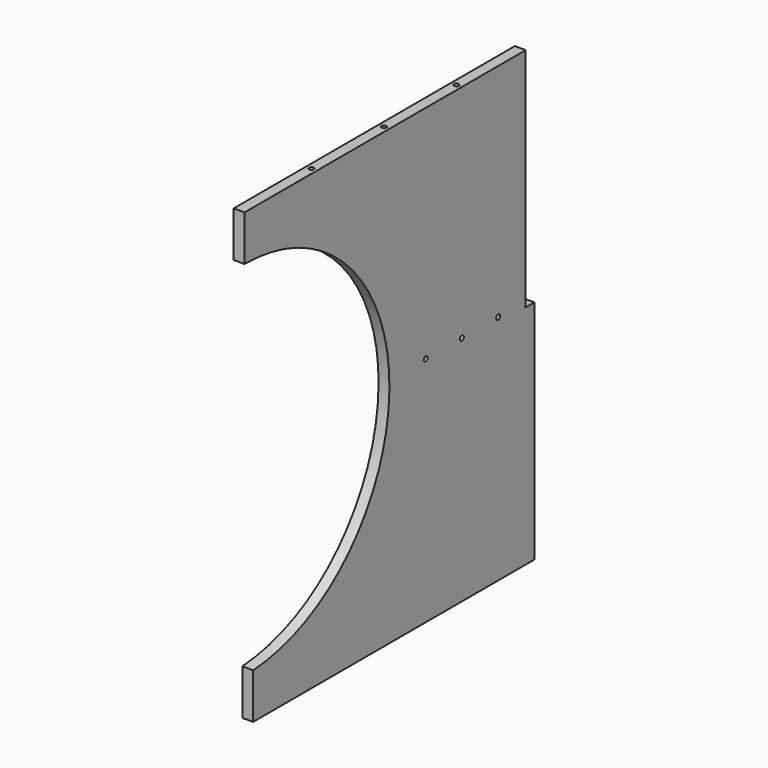
from build123d import *

# Parameters (mm, degrees)
PAD023_DEPTH    = 9
SKETCH069_R     = 4
POCKET020_DEPTH = 30
SKETCH072_R     = 4
POCKET023_DEPTH = 30
SKETCH073_R     = 4
POCKET024_DEPTH = 18.001


with BuildPart() as part:
    # Sketch065 → Pad023 (new body, symmetric)
    with BuildSketch(Plane.YZ):
        with BuildLine():
            Line((-600, 750), (-18, 750))
            Line((-18, 750), (-18, 375))
            Line((-18, 375), (0, 375))
            Line((0, 375), (0, 0))
            Line((0, 0), (-582, 0))
            Line((-582, 0), (-582, 75.270243))
            ThreePointArc((-582, 75.270243), (-300.135152, 383.733813), (-600, 674.729757))
            Line((-600, 750), (-600, 674.729757))
        make_face()
    extrude(amount=PAD023_DEPTH, both=True)

    # Sketch069 (on Face1 of Pad023) → Pocket020 (cut)
    with BuildSketch(Plane(origin=(0, 0, 750), x_dir=(0, -1, 0), z_dir=(0, 0, 1))):
        with Locations((150, 0)):
            Circle(SKETCH069_R)
        with Locations((300, 0)):
            Circle(SKETCH069_R)
        with Locations((450, 0)):
            Circle(SKETCH069_R)
    extrude(amount=-POCKET020_DEPTH, mode=Mode.SUBTRACT)

    # Sketch072 (on Face5 of Pocket020) → Pocket023 (cut)
    with BuildSketch(Plane.ZX.offset(-18)):
        with Locations((437.5, 0)):
            Circle(SKETCH072_R)
        with Locations((562.5, 0)):
            Circle(SKETCH072_R)
        with Locations((687.5, 0)):
            Circle(SKETCH072_R)
    extrude(amount=-POCKET023_DEPTH, mode=Mode.SUBTRACT)

    # Sketch073 (on Face4 of Pocket023) → Pocket024 (cut, through all)
    with BuildSketch(Plane.YZ.offset(9)):
        with Locations((-150, 384)):
            Circle(SKETCH073_R)
        with Locations((-225, 384)):
            Circle(SKETCH073_R)
        with Locations((-75, 384)):
            Circle(SKETCH073_R)
    extrude(amount=-POCKET024_DEPTH, mode=Mode.SUBTRACT)


with BuildPart() as part_1:
    # Body018001001001010001003001003001001019 placement: moved
    add(part.part.moved(Location((-710, 0, 0))))


with BuildPart() as part_2:
    # Clone014 placement: moved
    add(part_1.part.moved(Location((1420, 0, 0))))


solid = part_2.part
